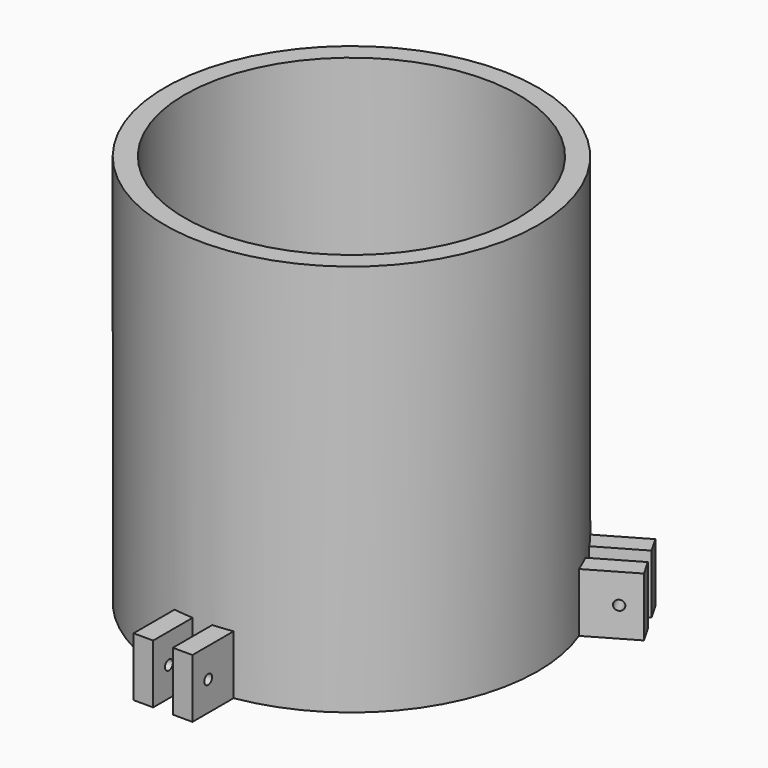
from build123d import *

# Parameters (mm, degrees)
F1_R      = 60.325
F2_DEPTH  = 127
F0_R      = 53.975
F3_DEPTH  = 184.912
F5_DEPTH  = 19.05
F6_R      = 1.5875
F7_DEPTH  = 25.4
F8_R      = 1.5875
F9_DEPTH  = 25.4
F10_R     = 1.5875
F11_DEPTH = 36.6522


with BuildPart() as f2:
    # F1 (on Top) → F2 (new body)
    with BuildSketch(Plane.XY):
        Circle(F1_R)
    extrude(amount=F2_DEPTH)

    # F0 (on Top) → F3 (cut)
    with BuildSketch(Plane.XY):
        Circle(F0_R)
    extrude(amount=F3_DEPTH, mode=Mode.SUBTRACT)

    # F4 (on Top) → F5 (join)
    with BuildSketch(Plane.XY):
        with BuildLine():
            ThreePointArc((-56.3123252778, 21.5134135298), (-55.0938321912, 24.4657841564), (-53.7206778829, 27.3494736274))
            Line((-53.7206778829, 27.3494736274), (-67.5786357684, 35.350369343))
            Line((-67.5786357684, 35.350369343), (-70.7536357684, 29.851108029))
            Line((-70.7536357684, 29.851108029), (-56.3123252778, 21.5134135298))
        make_face()
        with BuildLine():
            Line((-64.4036357684, 40.849630657), (-50.5456778829, 32.8487349414))
            ThreePointArc((-50.5456778829, 32.8487349414), (-48.7349066985, 35.4797661912), (-46.7873252778, 38.0111974719))
            Line((-46.7873252778, 38.0111974719), (-61.2286357684, 46.348891971))
            Line((-61.2286357684, 46.348891971), (-64.4036357684, 40.849630657))
        make_face()
        with BuildLine():
            Line((67.5786357684, 35.350369343), (53.7206778829, 27.3494736274))
            ThreePointArc((53.7206778829, 27.3494736274), (55.0938321912, 24.4657841564), (56.3123252778, 21.5134135298))
            Line((56.3123252778, 21.5134135298), (70.7536357684, 29.851108029))
            Line((70.7536357684, 29.851108029), (67.5786357684, 35.350369343))
        make_face()
        with BuildLine():
            ThreePointArc((46.7873252778, 38.0111974719), (48.7349066985, 35.4797661912), (50.5456778829, 32.8487349414))
            Line((50.5456778829, 32.8487349414), (64.4036357684, 40.849630657))
            Line((64.4036357684, 40.849630657), (61.2286357684, 46.348891971))
            Line((61.2286357684, 46.348891971), (46.7873252778, 38.0111974719))
        make_face()
        with BuildLine():
            Line((-3.175, -76.2), (-3.175, -60.1982085688))
            ThreePointArc((-3.175, -60.1982085688), (-6.3589254926, -59.9455503476), (-9.525, -59.5246110016))
            Line((-9.525, -59.5246110016), (-9.525, -76.2))
            Line((-9.525, -76.2), (-3.175, -76.2))
        make_face()
        with BuildLine():
            ThreePointArc((9.525, -59.5246110016), (6.3589254926, -59.9455503476), (3.175, -60.1982085688))
            Line((3.175, -60.1982085688), (3.175, -76.2))
            Line((3.175, -76.2), (9.525, -76.2))
            Line((9.525, -76.2), (9.525, -59.5246110016))
        make_face()
    extrude(amount=F5_DEPTH)

    # F6 (on face) → F7 (cut)
    with BuildSketch(Plane(origin=(4.7625, 8.248891971, 0), x_dir=(-0.8660254038, 0.5, 0), z_dir=(0.5, 0.8660254038, 0))):
        with Locations((69.85, 9.525)):
            Circle(F6_R)
    extrude(amount=-F7_DEPTH, mode=Mode.SUBTRACT)

    # F8 (on face) → F9 (cut)
    with BuildSketch(Plane(origin=(4.7625, -8.248891971, 0), x_dir=(0.8660254038, 0.5, 0), z_dir=(0.5, -0.8660254038, 0))):
        with Locations((69.85, 9.525)):
            Circle(F8_R)
    extrude(amount=-F9_DEPTH, mode=Mode.SUBTRACT)

    # F10 (on face) → F11 (cut)
    with BuildSketch(Plane(origin=(-9.525, 0, 0), x_dir=(0, -1, 0), z_dir=(-1, 0, 0))):
        with Locations((69.85, 9.525)):
            Circle(F10_R)
    extrude(amount=-F11_DEPTH, mode=Mode.SUBTRACT)


solid = f2.part
